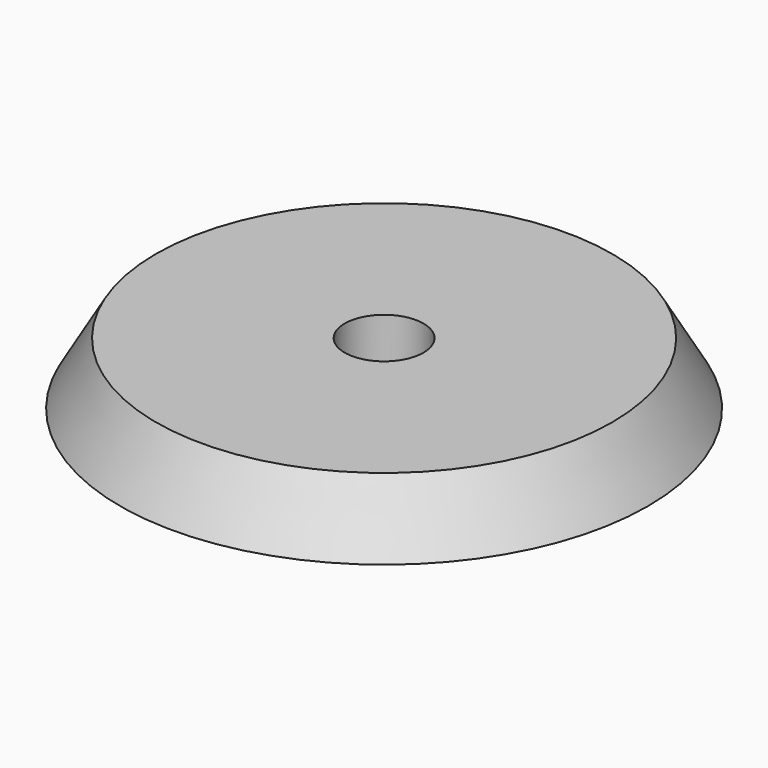
from build123d import *

# Parameters (mm, degrees)
F0_R     = 42.5
F1_DEPTH = 10
F1_TAPER = 30
F2_R     = 6.35
F3_DEPTH = 10


with BuildPart() as f1:
    # F0 (on Top) → F1 (new body)
    with BuildSketch(Plane.XY):
        Circle(F0_R)
    extrude(amount=F1_DEPTH, taper=F1_TAPER)

    # F2 (on Top) → F3 (cut, through all)
    with BuildSketch(Plane.XY):
        Circle(F2_R)
    extrude(amount=F3_DEPTH, mode=Mode.SUBTRACT)


solid = f1.part
